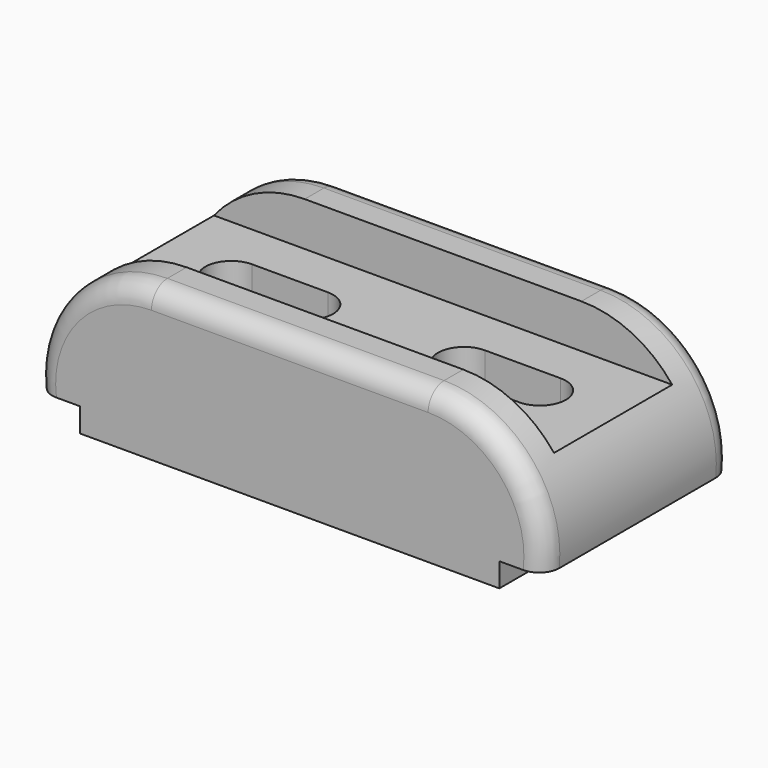
from build123d import *

# Parameters (mm, degrees)
F1_DEPTH = 59
F2_W     = 37
F2_H     = 11
F3_DEPTH = 170
F5_DEPTH = 61.20861
F6_R     = 5


with BuildPart() as f1:
    # F0 (on Front) → F1 (new body)
    with BuildSketch(Plane.XZ):
        with BuildLine():
            Line((11, 6), (11, 0))
            Line((11, 0), (116, 0))
            Line((116, 0), (116, 6))
            Line((116, 6), (127, 6))
            ThreePointArc((127, 6), (119.696249, 28.416488), (98.15559, 38))
            Line((98.15559, 38), (28.84441, 38))
            ThreePointArc((28.84441, 38), (7.303751, 28.416488), (0, 6))
            Line((0, 6), (11, 6))
        make_face()
    extrude(amount=F1_DEPTH)

    # F2 (on Right) → F3 (cut)
    with BuildSketch(Plane.YZ):
        with Locations((-29.5, 32.5)):
            Rectangle(F2_W, F2_H)
    extrude(amount=F3_DEPTH, mode=Mode.SUBTRACT)

    # F4 (on Top) → F5 (cut)
    with BuildSketch(Plane.XY):
        with BuildLine():
            Line((43.84441, -22.5), (24.84441, -22.5))
            ThreePointArc((24.84441, -22.5), (18.34441, -29), (24.84441, -35.5))
            Line((24.84441, -35.5), (43.84441, -35.5))
            ThreePointArc((43.84441, -35.5), (50.34441, -29), (43.84441, -22.5))
        make_face()
        with BuildLine():
            Line((102.15559, -22.5), (83.15559, -22.5))
            ThreePointArc((83.15559, -22.5), (76.65559, -29), (83.15559, -35.5))
            Line((83.15559, -35.5), (102.15559, -35.5))
            ThreePointArc((102.15559, -35.5), (108.65559, -29), (102.15559, -22.5))
        make_face()
    extrude(amount=F5_DEPTH, mode=Mode.SUBTRACT)

    # F6
    f6_edges = [f1.edges().sort_by_distance(p)[0] for p in [
        (7.303751, -59, 28.416488),
        (7.303751, 0, 28.416488),
    ]]
    fillet(f6_edges, radius=F6_R)


solid = f1.part
